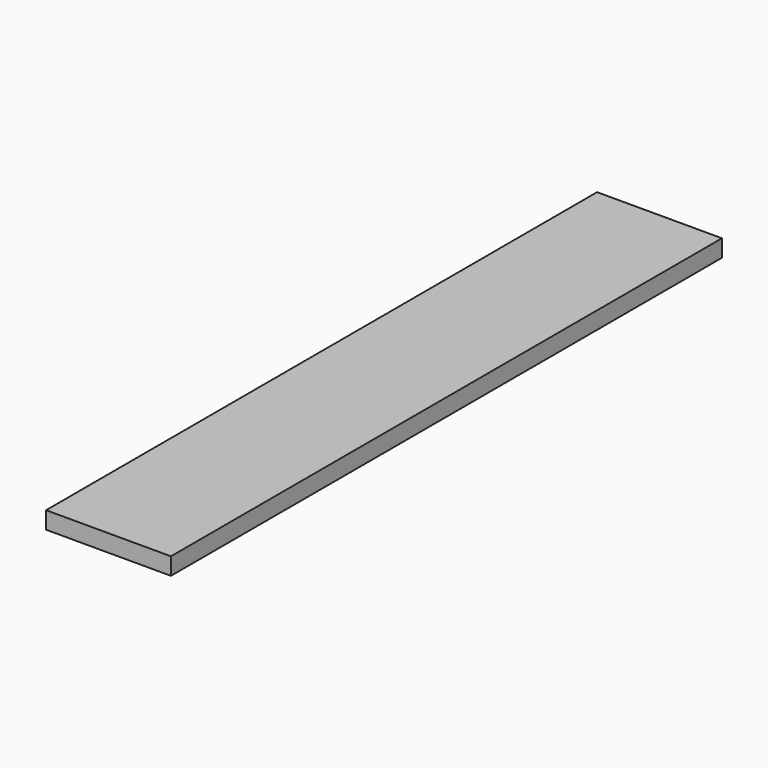
from build123d import *

# Parameters (mm, degrees)
F0_W     = 40.3330735862
F0_H     = 25.4436098039
F1_DEPTH = 800
F2_DEPTH = 20
F3_DEPTH = 25
F4_DEPTH = 145


with BuildPart() as f1:
    # F0 (on Front) → F1 (new body)
    with BuildSketch(Plane.XZ):
        with Locations((20.1665367931, 12.721804902)):
            Rectangle(F0_W, F0_H)
    extrude(amount=F1_DEPTH)

    # F2 (intersect): a face of the model
    f2_faces = [f1.faces().sort_by_distance(p)[0] for p in [
        (20.1665367931, -400, 0),
    ]]
    extrude(f2_faces, amount=-F2_DEPTH, mode=Mode.INTERSECT)

    # F3 (add): a face of the model
    f3_faces = [f1.faces().sort_by_distance(p)[0] for p in [
        (0, -400, 10),
    ]]
    extrude(f3_faces, amount=-F3_DEPTH)

    # F4 (add): a face of the model
    f4_faces = [f1.faces().sort_by_distance(p)[0] for p in [
        (0, -400, 10),
    ]]
    extrude(f4_faces, amount=-F4_DEPTH)


solid = f1.part
